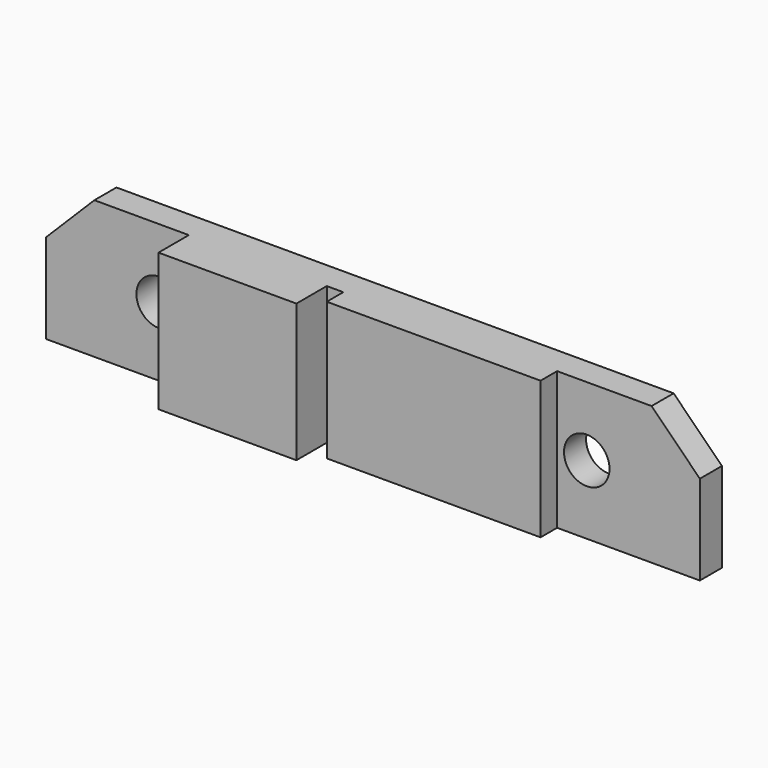
from build123d import *

# Parameters (mm, degrees)
SKETCH_W             = 47.4
SKETCH_H             = 2
PAD_DEPTH            = 10
SKETCH002_W          = 15.5
SKETCH002_H          = 10
PAD001_DEPTH         = 1.5
SKETCH003_R          = 1.65
POCKET_DEPTH         = 2.001
POCKET_DEPTH_BACK    = 1.501
POCKET001_DEPTH      = 2.001
POCKET001_DEPTH_BACK = 1.501
SKETCH005_W          = 10
SKETCH005_H          = 10
PAD002_DEPTH         = 2.75


with BuildPart() as part:
    # Sketch → Pad (new body)
    with BuildSketch(Plane.XY):
        with Locations((0, 1)):
            Rectangle(SKETCH_W, SKETCH_H)
    extrude(amount=-PAD_DEPTH)

    # Sketch002 → Pad001 (join)
    with BuildSketch(Plane.XZ):
        with Locations((5.6, -5)):
            Rectangle(SKETCH002_W, SKETCH002_H)
    extrude(amount=PAD001_DEPTH)

    # Sketch003 → Pocket (cut, two sides)
    with BuildSketch(Plane.XZ) as pocket_sk:
        with Locations((-15.5, -5)):
            Circle(SKETCH003_R)
        with Locations((15.5, -5)):
            Circle(SKETCH003_R)
    extrude(amount=-POCKET_DEPTH, mode=Mode.SUBTRACT)
    extrude(pocket_sk.sketch, amount=POCKET_DEPTH_BACK, mode=Mode.SUBTRACT)

    # Sketch004 → Pocket001 (cut, two sides)
    with BuildSketch(Plane.XZ) as pocket001_sk:
        Polygon((-20.2, 0), (-23.7, -3.5), (-23.7, 0), align=None)
        Polygon((20.2, 0), (23.7, 0), (23.7, -3.5), align=None)
    extrude(amount=-POCKET001_DEPTH, mode=Mode.SUBTRACT)
    extrude(pocket001_sk.sketch, amount=POCKET001_DEPTH_BACK, mode=Mode.SUBTRACT)

    # Sketch005 → Pad002 (join)
    with BuildSketch(Plane.XZ):
        with Locations((-8.35, -5)):
            Rectangle(SKETCH005_W, SKETCH005_H)
    extrude(amount=PAD002_DEPTH)


solid = part.part
